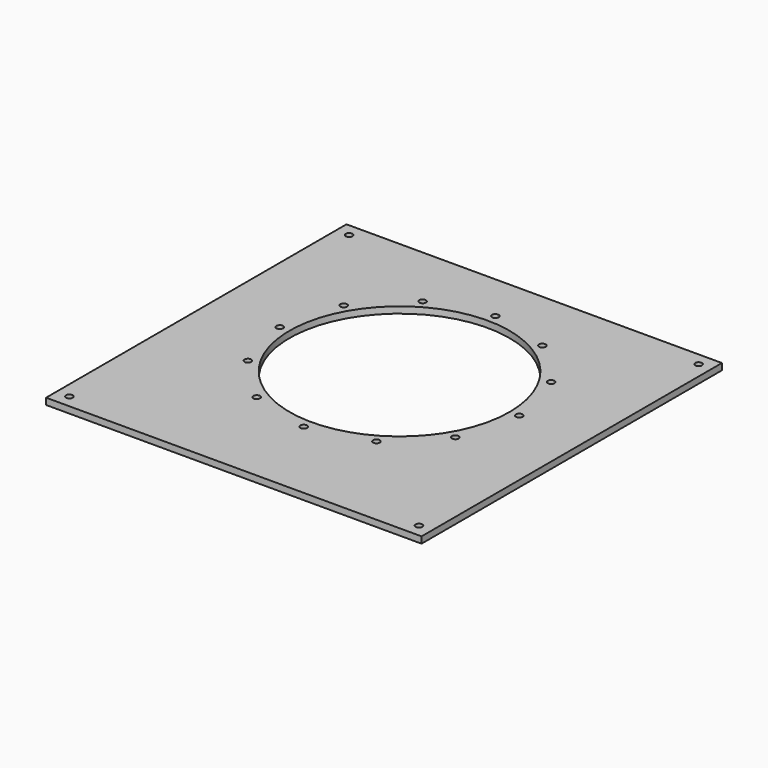
from build123d import *

# Parameters (mm, degrees)
F0_W     = 290
F0_H     = 290
F0_R     = 2.6
F1_DEPTH = 5
F2_R     = 85
F3_DEPTH = 5.001
F4_R     = 2.6
F5_DEPTH = 5.001


with BuildPart() as f1:
    # F0 (on Top) → F1 (new body)
    with BuildSketch(Plane.XY):
        Rectangle(F0_W, F0_H)
        with Locations((-135, -135)):
            Circle(F0_R, mode=Mode.SUBTRACT)
        with Locations((135, -135)):
            Circle(F0_R, mode=Mode.SUBTRACT)
        with Locations((-135, 135)):
            Circle(F0_R, mode=Mode.SUBTRACT)
        with Locations((135, 135)):
            Circle(F0_R, mode=Mode.SUBTRACT)
    extrude(amount=F1_DEPTH)

    # F2 (on face) → F3 (cut, through all)
    with BuildSketch(Plane.XY.offset(5)):
        with Locations((0, 15)):
            Circle(F2_R)
    extrude(amount=-F3_DEPTH, mode=Mode.SUBTRACT)

    # F4 (on face) → F5 (cut, through all)
    with BuildSketch(Plane.XY.offset(5)):
        with Locations((0, 107.5)):
            Circle(F4_R)
        with Locations((-46.25, 95.10735)):
            Circle(F4_R)
        with Locations((-80.10735, 61.25)):
            Circle(F4_R)
        with Locations((-92.5, 15)):
            Circle(F4_R)
        with Locations((-80.10735, -31.25)):
            Circle(F4_R)
        with Locations((-46.25, -65.10735)):
            Circle(F4_R)
        with Locations((0, -77.5)):
            Circle(F4_R)
        with Locations((46.25, -65.10735)):
            Circle(F4_R)
        with Locations((80.10735, -31.25)):
            Circle(F4_R)
        with Locations((92.5, 15)):
            Circle(F4_R)
        with Locations((80.10735, 61.25)):
            Circle(F4_R)
        with Locations((46.25, 95.10735)):
            Circle(F4_R)
    extrude(amount=-F5_DEPTH, mode=Mode.SUBTRACT)


solid = f1.part
